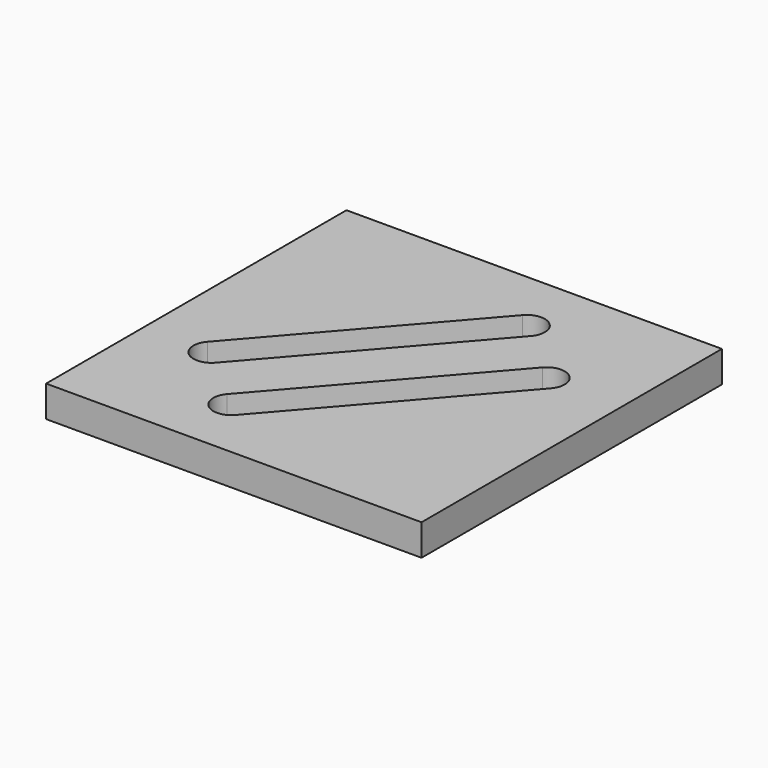
from build123d import *

# Parameters (mm, degrees)
F0_W     = 76.2
F0_H     = 76.2
F1_DEPTH = 6.35


with BuildPart() as f1:
    # F0 (on Top) → F1 (new body)
    with BuildSketch(Plane.XY):
        Rectangle(F0_W, F0_H)
        with BuildLine():
            ThreePointArc((-7.921258, -27.766384), (-13.068427, -28.129462), (-13.431505, -22.982294))
            Line((-13.431505, -22.982294), (19.872915, 15.377263))
            ThreePointArc((19.872915, 15.377263), (25.020084, 15.740341), (25.383162, 10.593172))
            Line((25.383162, 10.593172), (-7.921258, -27.766384))
        make_face(mode=Mode.SUBTRACT)
        with BuildLine():
            ThreePointArc((-21.596966, -15.714419), (-26.744134, -16.077497), (-27.107213, -10.930329))
            Line((-27.107213, -10.930329), (6.197208, 27.429228))
            ThreePointArc((6.197208, 27.429228), (11.344377, 27.792306), (11.707455, 22.645137))
            Line((11.707455, 22.645137), (-21.596966, -15.714419))
        make_face(mode=Mode.SUBTRACT)
    extrude(amount=F1_DEPTH)


solid = f1.part
